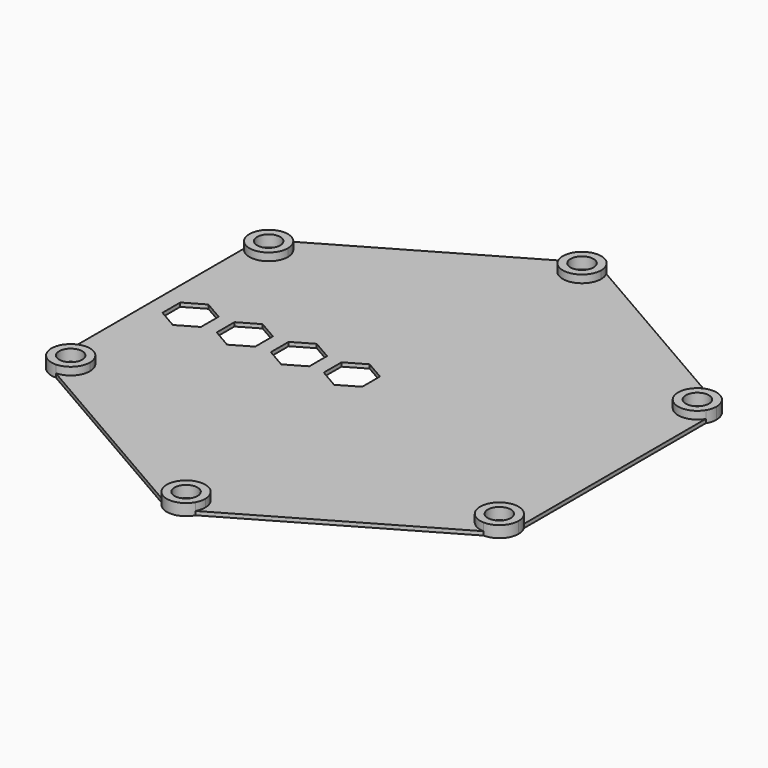
from build123d import *

# Parameters (mm, degrees)
F1_DEPTH = 1
F0_R     = 3
F2_DEPTH = 3


with BuildPart() as f1:
    # F0 (on Top) → F1 (new body)
    with BuildSketch(Plane.XY):
        with BuildLine():
            Line((60, -29.5747704777), (60, 29.574769431))
            ThreePointArc((60, 29.574769431), (51.3994928411, 29.6755110105), (55.6125027826, 37.1741388509))
            Line((55.6125027826, 37.1741388509), (4.3874976328, 66.7489093634))
            ThreePointArc((4.3874976328, 66.7489093634), (4.844454983, 65.5884611093), (5, 64.351021851))
            ThreePointArc((5, 64.351021851), (-1.2374392583, 59.506566868), (-4.3874976328, 66.7489093634))
            Line((-4.3874976328, 66.7489093634), (-55.6125023294, 37.1741391126))
            ThreePointArc((-55.6125023294, 37.1741391126), (-52.1529183527, 35.6693921891), (-50.7296198931, 32.1755109531))
            ThreePointArc((-50.7296198931, 32.1755109531), (-54.37904604, 27.3613702959), (-60, 29.5747699543))
            Line((-60, 29.5747699543), (-60, -29.5747699543))
            ThreePointArc((-60, -29.5747699543), (-54.3790460573, -27.3613707384), (-50.7296201258, -32.1755113351))
            ThreePointArc((-50.7296201258, -32.1755113351), (-52.152918285, -35.6693922636), (-55.6125017026, -37.1741394744))
            Line((-55.6125017026, -37.1741394744), (-4.3874984862, -66.7489088707))
            ThreePointArc((-4.3874984862, -66.7489088707), (-1.237438708, -59.5065674728), (4.9999998449, -64.351022636))
            ThreePointArc((4.9999998449, -64.351022636), (4.8444549712, -65.5884613333), (4.387498033, -66.7489091323))
            Line((4.387498033, -66.7489091323), (55.6125012494, -37.1741397361))
            ThreePointArc((55.6125012494, -37.1741397361), (51.3994931648, -29.6755112347), (60, -29.5747704777))
        make_face()
        Polygon((-8.3002293408, -5.8508351856), (-13.3002293408, -2.9640838396), (-13.3002293408, 2.8094188523), (-8.3002293408, 5.6961701982), (-3.3002293408, 2.8094188523), (-3.3002293408, -2.9640838396), align=None, mode=Mode.SUBTRACT)
        Polygon((-50.3002293408, 5.7735026919), (-45.3002293408, 2.8867513459), (-45.3002293408, -2.8867513459), (-50.3002293408, -5.7735026919), (-55.3002293408, -2.8867513459), (-55.3002293408, 2.8867513459), align=None, mode=Mode.SUBTRACT)
        Polygon((-36.3002293408, -5.6435510621), (-41.3002293408, -2.7567997162), (-41.3002293408, 3.0167029757), (-36.3002293408, 5.9034543217), (-31.3002293408, 3.0167029757), (-31.3002293408, -2.7567997162), align=None, mode=Mode.SUBTRACT)
        Polygon((-22.3002293408, -5.5399089458), (-27.3002293408, -2.6531575999), (-27.3002293408, 3.120345092), (-22.3002293408, 6.007096438), (-17.3002293408, 3.120345092), (-17.3002293408, -2.6531575999), align=None, mode=Mode.SUBTRACT)
    extrude(amount=F1_DEPTH)

    # F0 (on Top) → F2 (join)
    with BuildSketch(Plane.XY):
        with BuildLine():
            ThreePointArc((-50.7296198931, 32.1755109531), (-52.1529183527, 35.6693921891), (-55.6125023294, 37.1741391126))
            ThreePointArc((-55.6125023294, 37.1741391126), (-60.0597469512, 34.6755108854), (-60, 29.5747699543))
            ThreePointArc((-60, 29.5747699543), (-54.37904604, 27.3613702959), (-50.7296198931, 32.1755109531))
        make_face()
        with Locations((-55.7296198931, 32.1755109531)):
            Circle(F0_R, mode=Mode.SUBTRACT)
        with BuildLine():
            ThreePointArc((5, 64.351021851), (4.844454983, 65.5884611093), (4.3874976328, 66.7489093634))
            ThreePointArc((4.3874976328, 66.7489093634), (0, 69.351021851), (-4.3874976328, 66.7489093634))
            ThreePointArc((-4.3874976328, 66.7489093634), (-1.2374392583, 59.506566868), (5, 64.351021851))
        make_face()
        with Locations((0, 64.351021851)):
            Circle(F0_R, mode=Mode.SUBTRACT)
        with BuildLine():
            ThreePointArc((55.6125027826, 37.1741388509), (51.3994928411, 29.6755110105), (60, 29.574769431))
            ThreePointArc((60, 29.574769431), (60.5437606651, 30.8249366878), (60.7296200482, 32.1755106845))
            ThreePointArc((60.7296200482, 32.1755106845), (59.2235013908, 35.7522121207), (55.6125027826, 37.1741388509))
        make_face()
        with Locations((55.7296200482, 32.1755106845)):
            Circle(F0_R, mode=Mode.SUBTRACT)
        with BuildLine():
            ThreePointArc((60.7296199707, -32.1755116038), (60.5437606077, -30.8249376789), (60, -29.5747704777))
            ThreePointArc((60, -29.5747704777), (51.3994931648, -29.6755112347), (55.6125012494, -37.1741397361))
            ThreePointArc((55.6125012494, -37.1741397361), (59.2235007925, -35.7522135487), (60.7296199707, -32.1755116038))
        make_face()
        with Locations((55.7296199707, -32.1755116038)):
            Circle(F0_R, mode=Mode.SUBTRACT)
        with BuildLine():
            ThreePointArc((-4.3874984862, -66.7489088707), (-3.042e-07, -69.351022636), (4.387498033, -66.7489091323))
            ThreePointArc((4.387498033, -66.7489091323), (4.8444549712, -65.5884613333), (4.9999998449, -64.351022636))
            ThreePointArc((4.9999998449, -64.351022636), (-1.237438708, -59.5065674728), (-4.3874984862, -66.7489088707))
        make_face()
        with Locations((-1.551e-07, -64.351022636)):
            Circle(F0_R, mode=Mode.SUBTRACT)
        with BuildLine():
            ThreePointArc((-60, -29.5747699543), (-60.0597470807, -34.6755114459), (-55.6125017026, -37.1741394744))
            ThreePointArc((-55.6125017026, -37.1741394744), (-52.152918285, -35.6693922636), (-50.7296201258, -32.1755113351))
            ThreePointArc((-50.7296201258, -32.1755113351), (-54.3790460573, -27.3613707384), (-60, -29.5747699543))
        make_face()
        with Locations((-55.7296201258, -32.1755113351)):
            Circle(F0_R, mode=Mode.SUBTRACT)
    extrude(amount=F2_DEPTH)


solid = f1.part
